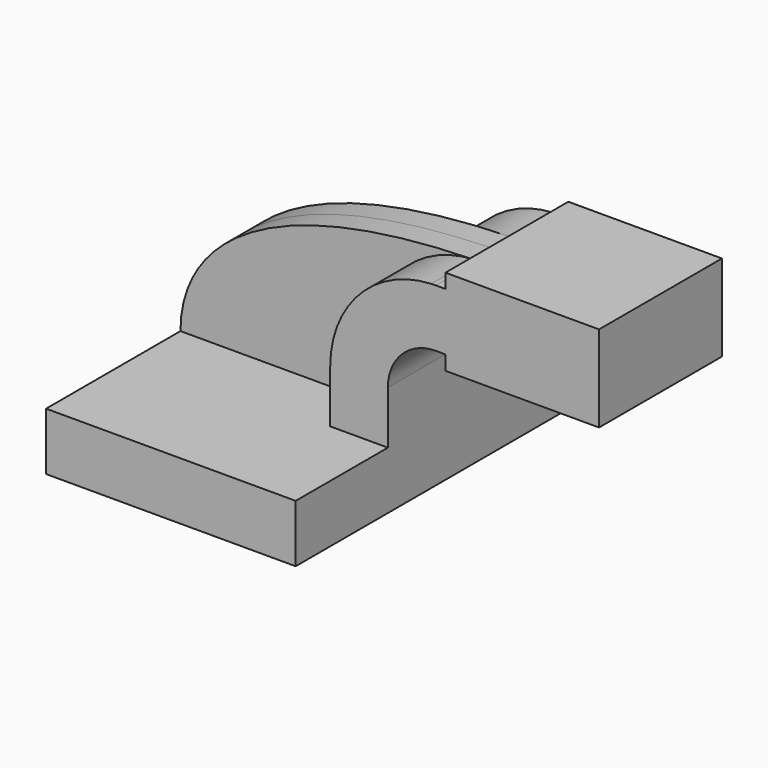
from build123d import *

# Parameters (mm, degrees)
F1_DEPTH = 63.5
F2_DEPTH = 25.4
F3_DEPTH = 7.9375


with BuildPart() as f1:
    # F0 (on Front) → F1 (new body, symmetric)
    with BuildSketch(Plane.XZ):
        Polygon((22.225, 9.525), (-41.275, 9.525), (-41.275, -9.525), (41.275, -9.525), (41.275, 9.525), align=None)
    extrude(amount=F1_DEPTH, both=True)

    # F0 (on Front) → F2 (join, symmetric)
    with BuildSketch(Plane.XZ):
        Polygon((60.325, 66.675), (60.325, 61.9252), (60.325, 42.8752), (60.325, 38.1), (111.125, 38.1), (111.125, 66.675), align=None)
        with BuildLine():
            Line((22.225, 27.0002), (22.225, 9.525))
            Line((22.225, 9.525), (41.275, 9.525))
            Line((41.275, 9.525), (41.275, 27.0002))
            ThreePointArc((41.275, 27.0002), (45.92468, 38.22552), (57.15, 42.8752))
            Line((57.15, 42.8752), (60.325, 42.8752))
            Line((60.325, 42.8752), (60.325, 61.9252))
            Line((60.325, 61.9252), (57.15, 61.9252))
            add(Edge.make_bspline(
                [(55.648092, 61.892891), (56.146402, 61.904771), (56.647035, 61.915543), (57.15, 61.9252)],
                knots=[110.762512, 110.762512, 110.762512, 110.762512, 111.504536, 111.504536, 111.504536, 111.504536], degree=3))
            ThreePointArc((55.648092, 61.892891), (31.92888, 51.159065), (22.225, 27.0002))
        make_face()
    extrude(amount=F2_DEPTH, both=True)

    # F0 (on Front) → F3 (join, symmetric)
    with BuildSketch(Plane.XZ):
        with BuildLine():
            add(Edge.make_bspline(
                [(-41.275, 9.525), (-41.346803, 33.675018), (-18.734938, 60.119621), (55.648092, 61.892891)],
                knots=[0, 0, 0, 0, 110.762512, 110.762512, 110.762512, 110.762512], degree=3))
            Line((-41.275, 9.525), (22.225, 9.525))
            Line((22.225, 9.525), (22.225, 27.0002))
            ThreePointArc((22.225, 27.0002), (31.92888, 51.159065), (55.648092, 61.892891))
        make_face()
    extrude(amount=F3_DEPTH, both=True)


solid = f1.part
